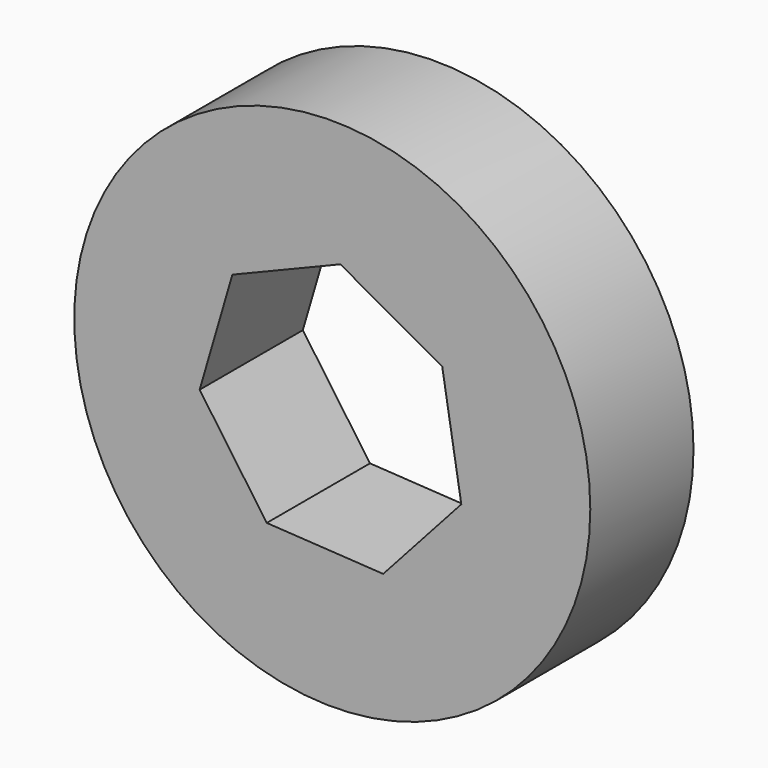
from build123d import *

# Parameters (mm, degrees)
F0_R     = 50
F1_DEPTH = 25
F3_DEPTH = 25.001


with BuildPart() as f1:
    # F0 (on Front) → F1 (new body)
    with BuildSketch(Plane.XZ):
        Circle(F0_R)
    extrude(amount=-F1_DEPTH)

    # F2 (on face) → F3 (cut, through all)
    with BuildSketch(Plane.XZ):
        Polygon((-25.700292, -4.258808), (-12.6942, -22.748621), (9.870884, -24.108258), (25.002991, -7.313885), (21.307336, 14.987992), (1.566822, 26.003606), (-19.35354, 17.437974), align=None)
    extrude(amount=-F3_DEPTH, mode=Mode.SUBTRACT)


solid = f1.part
